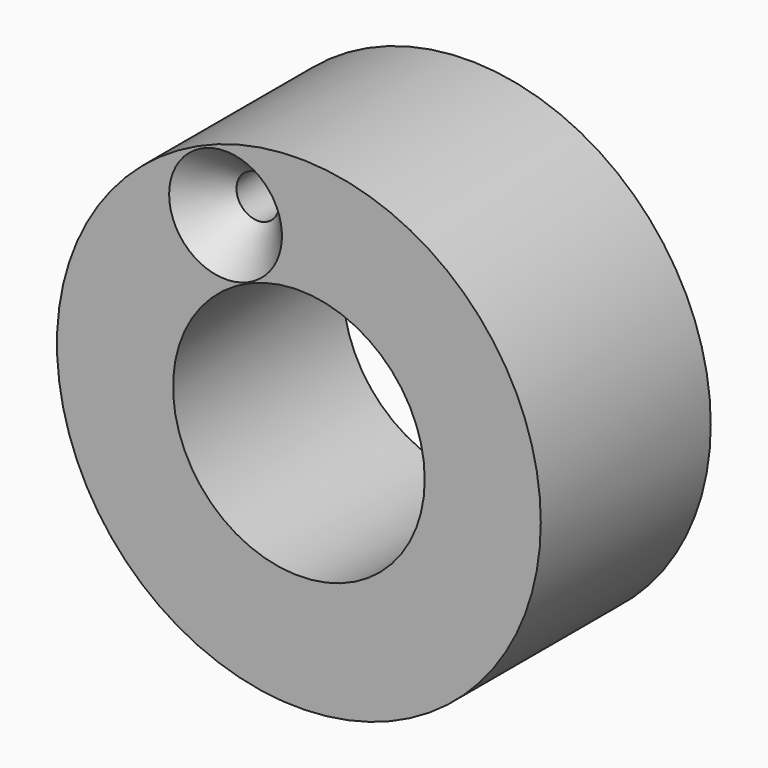
from build123d import *

# Parameters (mm, degrees)
F0_R           = 28.9202335228
F1_DEPTH       = 25.4
F2_R           = 15.0449278179
F3_DEPTH       = 25.401
F5_D           = 5.1054
F5_CSINK_D     = 13.4874
F5_CSINK_ANGLE = 82


with BuildPart() as f1:
    # F0 (on Front) → F1 (new body)
    with BuildSketch(Plane.XZ):
        with Locations((24.1588130593, 38.0158424377)):
            Circle(F0_R)
    extrude(amount=F1_DEPTH)

    # F2 (on face) → F3 (cut, through all)
    with BuildSketch(Plane.XZ.offset(25.4)):
        with Locations((24.1588130593, 38.0158424377)):
            Circle(F2_R)
    extrude(amount=-F3_DEPTH, mode=Mode.SUBTRACT)

    # F5 (through all)
    with Locations(Plane.XZ.offset(25.4)):
        with Locations((15.3881106526, 58.0915510654)):
            CounterSinkHole(F5_D / 2, F5_CSINK_D / 2, counter_sink_angle=F5_CSINK_ANGLE)


solid = f1.part
